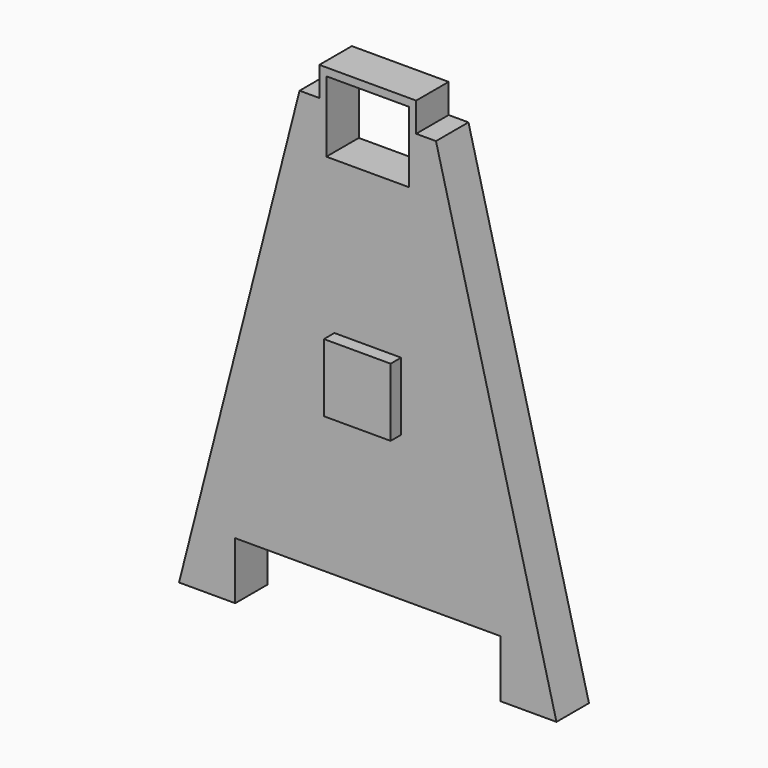
from build123d import *

# Parameters (mm, degrees)
F0_W     = 1.090225624
F0_H     = 7.7231296032
F1_DEPTH = 6.35
F3_DEPTH = 8.39926


with BuildPart() as f1:
    # F0 (on Front) → F1 (new body)
    with BuildSketch(Plane.XZ):
        Polygon((-7.5686656406, 37.2254792051), (-10.668, 37.2254792051), (-29.5124314971, -36.6076258465), (-20.7240314971, -36.6076258465), (-20.7240314971, -27.6487994939), (0, -27.6487994939), (20.7240314971, -27.6487994939), (20.7240314971, -36.6076258465), (29.5124314971, -36.6076258465), (10.668, 37.2254792051), (7.5686656406, 37.2254792051), (7.5686656406, 29.5023496019), (6.4784400165, 29.5023496019), (0, 29.5023496019), (-6.4784400165, 29.5023496019), (-7.5686656406, 29.5023496019), align=None)
        with Locations((-7.0235528285, 33.3639144035)):
            Rectangle(F0_W, F0_H)
        Polygon((-7.5686656406, 41.7925901711), (-7.5686656406, 37.2254792051), (-6.4784400165, 37.2254792051), (-6.4784400165, 40.5764468014), (0, 40.5764468014), (6.4784400165, 40.5764468014), (6.4784400165, 37.2254792051), (7.5686656406, 37.2254792051), (7.5686656406, 41.7925901711), (0, 41.7925901711), align=None)
        with Locations((7.0235528285, 33.3639144035)):
            Rectangle(F0_W, F0_H)
    extrude(amount=F1_DEPTH)

    # F2 (on Front) → F3 (join)
    with BuildSketch(Plane.XZ):
        Polygon((0, 5.6396927685), (-5.2173733711, 5.6396927685), (-5.2173733711, -4.9869618379), (0, -4.9869618379), (5.2173733711, -4.9869618379), (5.2173733711, 5.6396927685), align=None)
    extrude(amount=F3_DEPTH)


solid = f1.part
